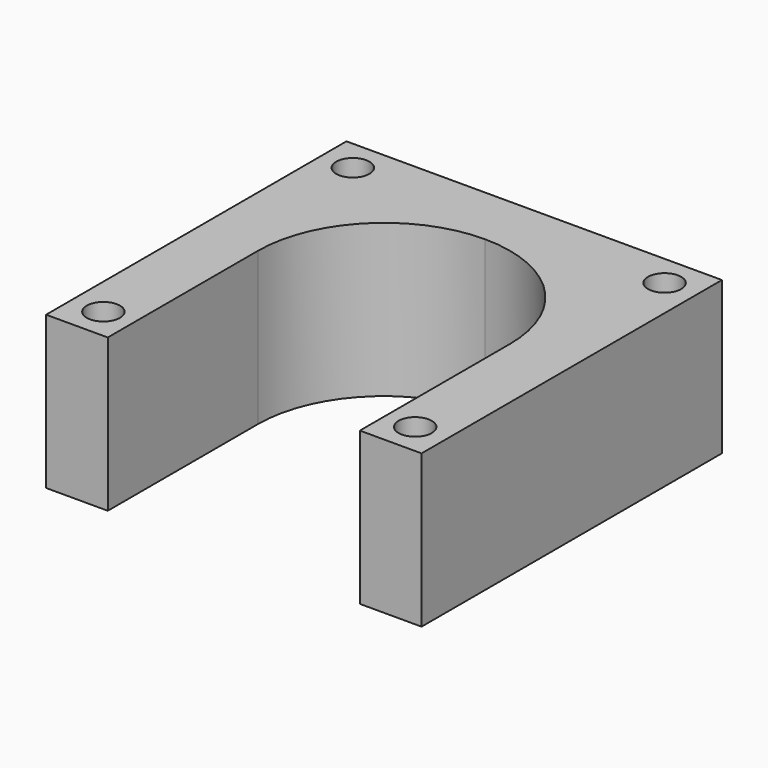
from build123d import *

# Parameters (mm, degrees)
F0_W     = 56.6
F0_H     = 56.6
F1_DEPTH = 23
F3_DEPTH = 23
F5_D     = 5


with BuildPart() as f1:
    # F0 (on Top) → F1 (new body)
    with BuildSketch(Plane.XY):
        with Locations((28.3, 28.3)):
            Rectangle(F0_W, F0_H)
    extrude(amount=F1_DEPTH)

    # F2 (on face) → F3 (cut, through all)
    with BuildSketch(Plane.XY.offset(23)):
        with BuildLine():
            Line((28.3, 28.3), (47.3, 28.3))
            ThreePointArc((47.3, 28.3), (41.7350288425, 41.7350288425), (28.3, 47.3))
            Line((28.3, 47.3), (28.3, 28.3))
        make_face()
        with BuildLine():
            Line((47.3, 0), (47.3, 28.3))
            ThreePointArc((47.3, 28.3), (41.7350288425, 14.8649711575), (28.3, 9.3))
            Line((28.3, 9.3), (28.3, 0))
            Line((28.3, 0), (47.3, 0))
        make_face()
        with BuildLine():
            ThreePointArc((28.3, 9.3), (41.7350288425, 14.8649711575), (47.3, 28.3))
            Line((47.3, 28.3), (28.3, 28.3))
            Line((28.3, 28.3), (28.3, 9.3))
        make_face()
        with BuildLine():
            Line((28.3, 28.3), (28.3, 47.3))
            ThreePointArc((28.3, 47.3), (14.8649711575, 41.7350288425), (9.3, 28.3))
            Line((9.3, 28.3), (28.3, 28.3))
        make_face()
        with BuildLine():
            Line((28.3, 0), (28.3, 9.3))
            ThreePointArc((28.3, 9.3), (14.8649711575, 14.8649711575), (9.3, 28.3))
            Line((9.3, 28.3), (9.3, 0))
            Line((9.3, 0), (28.3, 0))
        make_face()
        with BuildLine():
            ThreePointArc((9.3, 28.3), (14.8649711575, 14.8649711575), (28.3, 9.3))
            Line((28.3, 9.3), (28.3, 28.3))
            Line((28.3, 28.3), (9.3, 28.3))
        make_face()
    extrude(amount=-F3_DEPTH, mode=Mode.SUBTRACT)

    # F5 (through all)
    with Locations(Plane.XY.offset(23)):
        with Locations((4.8, 51.8), (51.8, 51.8), (51.8, 4.8), (4.8, 4.8)):
            Hole(F5_D / 2)


solid = f1.part
